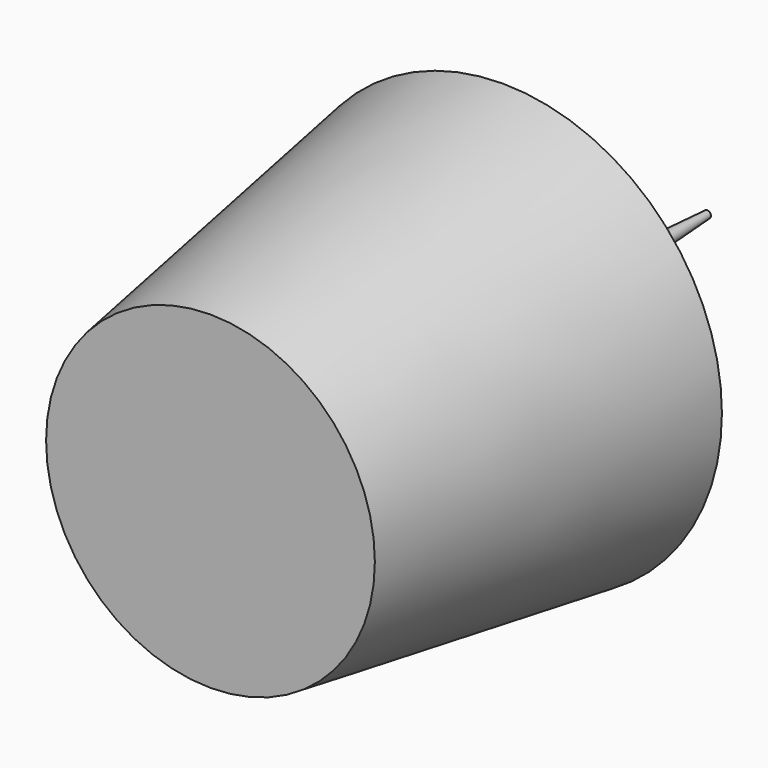
from build123d import *

# Parameters (mm, degrees)
F0_R = 30
F2_R = 22.5
F4_R = 2.5
F6_R = 0.5


with BuildPart() as f3:
    # F0 (on Front) → F3 section 0
    with BuildSketch(Plane.XZ):
        Circle(F0_R)
    # F2 (on offset) → F3 section 1
    with BuildSketch(Plane.XZ.offset(50)):
        Circle(F2_R)
    loft()

    # F4 (on Front) → F7 section 0
    with BuildSketch(Plane.XZ):
        Circle(F4_R)
    # F6 (on offset) → F7 section 1
    with BuildSketch(Plane.XZ.offset(-35)):
        Circle(F6_R)
    loft()


solid = f3.part
